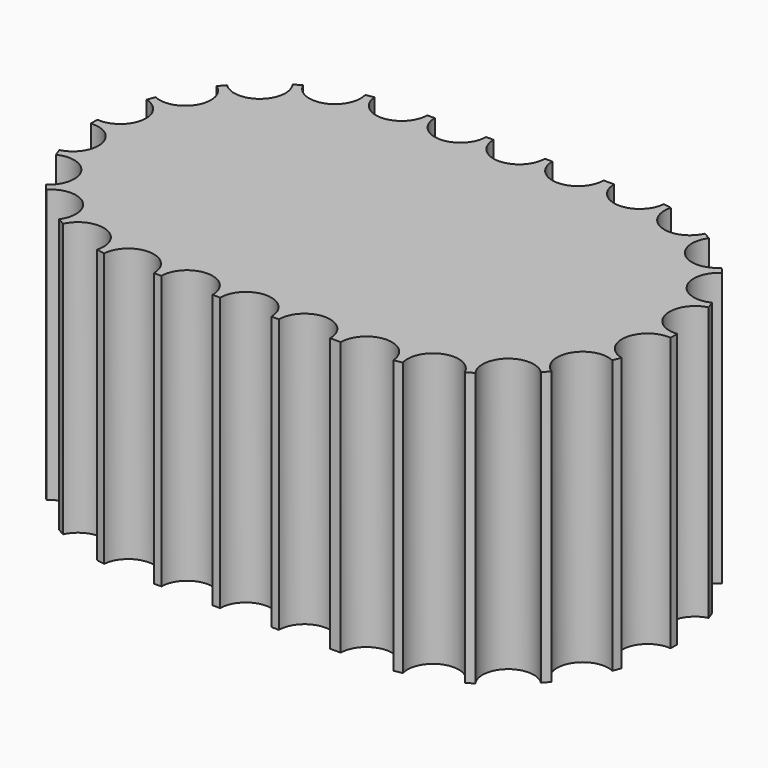
from build123d import *

# Parameters (mm, degrees)
F1_DEPTH = 50.8


with BuildPart() as f1:
    # F0 (on Top) → F1 (new body)
    with BuildSketch(Plane.XY):
        with BuildLine():
            ThreePointArc((-39.4843, 31.75), (-44.0680803662, 26.9908545365), (-48.9958865795, 31.3928125))
            ThreePointArc((-48.9958865795, 31.3928125), (-49.7601296409, 31.2676461581), (-50.5210926164, 31.1238775246))
            ThreePointArc((-50.5210926164, 31.1238775246), (-50.3880618617, 30.485653166), (-50.3434395506, 29.83524071))
            ThreePointArc((-50.3434395506, 29.83524071), (-54.1035181326, 25.1794316985), (-59.4464558449, 27.8753109794))
            ThreePointArc((-59.4464558449, 27.8753109794), (-60.1218, 27.4963065702), (-60.7876995241, 27.1009435801))
            ThreePointArc((-60.7876995241, 27.1009435801), (-60.1220470195, 25.7816931615), (-59.8928066075, 24.321911069))
            ThreePointArc((-59.8928066075, 24.321911069), (-62.859641473, 19.9109029105), (-68.0637222924, 20.9956355589))
            ThreePointArc((-68.0637222924, 20.9956355589), (-68.568711069, 20.4085066075), (-69.0592298315, 19.8092358726))
            ThreePointArc((-69.0592298315, 19.8092358726), (-67.5322058816, 18.0997969887), (-66.9806065702, 15.875))
            ThreePointArc((-66.9806065702, 15.875), (-69.2087580954, 11.8428189452), (-73.808316411, 11.5835766274))
            ThreePointArc((-73.808316411, 11.5835766274), (-74.08204071, 10.8591395506), (-74.3380149087, 10.1282419657))
            ThreePointArc((-74.3380149087, 10.1282419657), (-71.7538504556, 8.4355421952), (-70.7519461581, 5.5133296409))
            ThreePointArc((-70.7519461581, 5.5133296409), (-72.3184192392, 1.9824914708), (-75.987355369, 0.7743673992))
            ThreePointArc((-75.987355369, 0.7743673992), (-75.9968, 0), (-75.987355369, -0.7743673992))
            ThreePointArc((-75.987355369, -0.7743673992), (-72.3184192392, -1.9824914708), (-70.7519461581, -5.5133296409))
            ThreePointArc((-70.7519461581, -5.5133296409), (-71.7538504556, -8.4355421952), (-74.3380149087, -10.1282419657))
            ThreePointArc((-74.3380149087, -10.1282419657), (-74.08204071, -10.8591395506), (-73.808316411, -11.5835766274))
            ThreePointArc((-73.808316411, -11.5835766274), (-69.2087580954, -11.8428189452), (-66.9806065702, -15.875))
            ThreePointArc((-66.9806065702, -15.875), (-67.5322058816, -18.0997969887), (-69.0592298315, -19.8092358726))
            ThreePointArc((-69.0592298315, -19.8092358726), (-68.568711069, -20.4085066075), (-68.0637222924, -20.9956355589))
            ThreePointArc((-68.0637222924, -20.9956355589), (-62.859641473, -19.9109029105), (-59.8928066075, -24.321911069))
            ThreePointArc((-59.8928066075, -24.321911069), (-60.1220470195, -25.7816931615), (-60.7876995241, -27.1009435801))
            ThreePointArc((-60.7876995241, -27.1009435801), (-60.1218, -27.4963065702), (-59.4464558449, -27.8753109794))
            ThreePointArc((-59.4464558449, -27.8753109794), (-54.1035181326, -25.1794316985), (-50.3434395506, -29.83524071))
            ThreePointArc((-50.3434395506, -29.83524071), (-50.3880618617, -30.485653166), (-50.5210926164, -31.1238775246))
            ThreePointArc((-50.5210926164, -31.1238775246), (-49.7601296409, -31.2676461581), (-48.9958865795, -31.3928125))
            ThreePointArc((-48.9958865795, -31.3928125), (-44.0680803662, -26.9908545365), (-39.4843, -31.75))
            Line((-39.4843, -31.75), (-38.0873, -31.75))
            ThreePointArc((-38.0873, -31.75), (-33.3248, -26.9875), (-28.5623, -31.75))
            Line((-28.5623, -31.75), (-27.1653, -31.75))
            ThreePointArc((-27.1653, -31.75), (-22.4028, -26.9875), (-17.6403, -31.75))
            Line((-17.6403, -31.75), (-16.2433, -31.75))
            ThreePointArc((-16.2433, -31.75), (-11.4808, -26.9875), (-6.7183, -31.75))
            Line((-6.7183, -31.75), (-4.7625, -31.75))
            ThreePointArc((-4.7625, -31.75), (-0.1787196338, -26.9908545365), (4.7490865795, -31.3928125))
            ThreePointArc((4.7490865795, -31.3928125), (5.5133296409, -31.2676461581), (6.2742926164, -31.1238775246))
            ThreePointArc((6.2742926164, -31.1238775246), (9.230268618, -25.3599546035), (15.1996558449, -27.8753109794))
            ThreePointArc((15.1996558449, -27.8753109794), (15.875, -27.4963065702), (16.5408995241, -27.1009435801))
            ThreePointArc((16.5408995241, -27.1009435801), (17.3472306164, -20.6736244087), (23.8169222924, -20.9956355589))
            ThreePointArc((23.8169222924, -20.9956355589), (24.321911069, -20.4085066075), (24.8124298315, -19.8092358726))
            ThreePointArc((24.8124298315, -19.8092358726), (23.3718605846, -13.49375), (29.561516411, -11.5835766274))
            ThreePointArc((29.561516411, -11.5835766274), (29.83524071, -10.8591395506), (30.0912149087, -10.1282419657))
            ThreePointArc((30.0912149087, -10.1282419657), (26.5774992344, -4.6863301948), (31.740555369, -0.7743673992))
            ThreePointArc((31.740555369, -0.7743673992), (31.75, 0), (31.740555369, 0.7743673992))
            ThreePointArc((31.740555369, 0.7743673992), (26.5774992344, 4.6863301948), (30.0912149087, 10.1282419657))
            ThreePointArc((30.0912149087, 10.1282419657), (29.83524071, 10.8591395506), (29.561516411, 11.5835766274))
            ThreePointArc((29.561516411, 11.5835766274), (23.3718605846, 13.49375), (24.8124298315, 19.8092358726))
            ThreePointArc((24.8124298315, 19.8092358726), (24.321911069, 20.4085066075), (23.8169222924, 20.9956355589))
            ThreePointArc((23.8169222924, 20.9956355589), (17.3472306164, 20.6736244087), (16.5408995241, 27.1009435801))
            ThreePointArc((16.5408995241, 27.1009435801), (15.875, 27.4963065702), (15.1996558449, 27.8753109794))
            ThreePointArc((15.1996558449, 27.8753109794), (9.230268618, 25.3599546035), (6.2742926164, 31.1238775246))
            ThreePointArc((6.2742926164, 31.1238775246), (5.5133296409, 31.2676461581), (4.7490865795, 31.3928125))
            ThreePointArc((4.7490865795, 31.3928125), (-0.1787196338, 26.9908545365), (-4.7625, 31.75))
            Line((-4.7625, 31.75), (-6.7183, 31.75))
            ThreePointArc((-6.7183, 31.75), (-11.4808, 26.9875), (-16.2433, 31.75))
            Line((-16.2433, 31.75), (-17.6403, 31.75))
            ThreePointArc((-17.6403, 31.75), (-22.4028, 26.9875), (-27.1653, 31.75))
            Line((-27.1653, 31.75), (-28.5623, 31.75))
            ThreePointArc((-28.5623, 31.75), (-33.3248, 26.9875), (-38.0873, 31.75))
            Line((-38.0873, 31.75), (-39.4843, 31.75))
        make_face()
    extrude(amount=F1_DEPTH)


solid = f1.part
